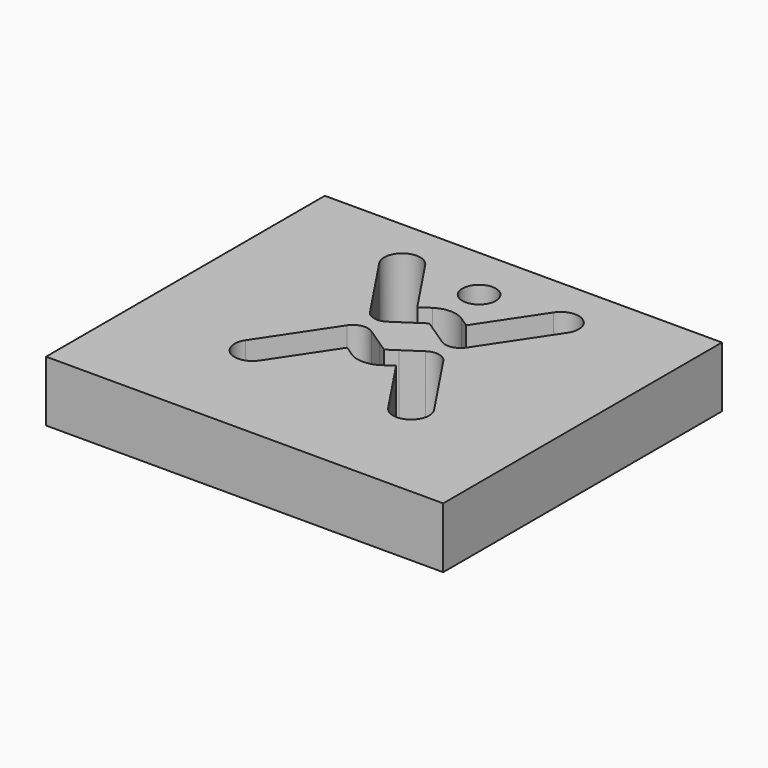
from build123d import *

# Parameters (mm, degrees)
F0_W     = 166.33784
F0_H     = 145.94993
F1_DEPTH = 25.4
F2_R     = 7.002992
F3_DEPTH = 87.884


with BuildPart() as f1:
    # F0 (on Top) → F1 (new body)
    with BuildSketch(Plane.XY):
        Rectangle(F0_W, F0_H)
    extrude(amount=F1_DEPTH)

    # F2 (on Top) → F3 (cut)
    with BuildSketch(Plane.XY):
        with BuildLine():
            Line((-10.242103, -6.474044), (-4.102627, 2.735104))
            Line((-4.102627, 2.735104), (-11.385368, 7.5903))
            ThreePointArc((-11.385368, 7.5903), (-16.153049, 8.533484), (-20.191239, 5.829157))
            Line((-20.191239, 5.829157), (-39.480227, -23.104115))
            Line((-39.480227, -23.104115), (-26.913978, -31.481675))
            Line((-26.913978, -31.481675), (-10.242103, -6.474044))
        make_face()
        Polygon((0, 0), (-4.102627, 2.735104), (-10.242103, -6.474044), (-6.139477, -9.209148), align=None)
        with BuildLine():
            Line((6.139477, -9.209148), (0, 0))
            Line((0, 0), (-6.139477, -9.209148))
            ThreePointArc((-6.139477, -9.209148), (0, -11.068043), (6.139477, -9.209148))
        make_face()
        Polygon((4.102627, 2.735104), (0, 0), (6.139477, -9.209148), (10.242103, -6.474044), align=None)
        with BuildLine():
            ThreePointArc((-39.480227, -23.104115), (-37.385883, -33.57602), (-26.913978, -31.481675))
            Line((-26.913978, -31.481675), (-39.480227, -23.104115))
        make_face()
        with BuildLine():
            Line((11.385368, 7.5903), (4.102627, 2.735104))
            Line((4.102627, 2.735104), (10.242103, -6.474044))
            Line((10.242103, -6.474044), (26.913978, -31.481675))
            Line((26.913978, -31.481675), (39.480227, -23.104115))
            Line((39.480227, -23.104115), (20.191239, 5.829157))
            ThreePointArc((20.191239, 5.829157), (16.153049, 8.533484), (11.385368, 7.5903))
        make_face()
        with BuildLine():
            Line((39.480227, -23.104115), (26.913978, -31.481675))
            ThreePointArc((26.913978, -31.481675), (37.385883, -33.57602), (39.480227, -23.104115))
        make_face()
        with Locations((0, 49.804196)):
            Circle(F2_R)
        with BuildLine():
            ThreePointArc((6.139477, 32.958477), (0, 34.817372), (-6.139477, 32.958477))
            Line((-6.139477, 32.958477), (0, 23.749329))
            Line((0, 23.749329), (6.139477, 32.958477))
        make_face()
        Polygon((0, 23.749329), (-6.139477, 32.958477), (-10.242103, 30.223372), (-4.102627, 21.014224), align=None)
        Polygon((6.139477, 32.958477), (0, 23.749329), (4.102627, 21.014224), (10.242103, 30.223372), align=None)
        with BuildLine():
            Line((-4.102627, 21.014224), (-10.242103, 30.223372))
            Line((-10.242103, 30.223372), (-26.913978, 55.231004))
            Line((-26.913978, 55.231004), (-39.480227, 46.853444))
            Line((-39.480227, 46.853444), (-20.191239, 17.920172))
            ThreePointArc((-20.191239, 17.920172), (-16.153049, 15.215844), (-11.385368, 16.159028))
            Line((-11.385368, 16.159028), (-4.102627, 21.014224))
        make_face()
        with BuildLine():
            Line((10.242103, 30.223372), (4.102627, 21.014224))
            Line((4.102627, 21.014224), (11.385368, 16.159028))
            ThreePointArc((11.385368, 16.159028), (16.153049, 15.215844), (20.191239, 17.920172))
            Line((20.191239, 17.920172), (39.480227, 46.853444))
            Line((39.480227, 46.853444), (26.913978, 55.231004))
            Line((26.913978, 55.231004), (10.242103, 30.223372))
        make_face()
        with BuildLine():
            Line((-39.480227, 46.853444), (-26.913978, 55.231004))
            ThreePointArc((-26.913978, 55.231004), (-37.385883, 57.325348), (-39.480227, 46.853444))
        make_face()
        with BuildLine():
            ThreePointArc((39.480227, 46.853444), (37.385883, 57.325348), (26.913978, 55.231004))
            Line((26.913978, 55.231004), (39.480227, 46.853444))
        make_face()
    extrude(amount=F3_DEPTH, mode=Mode.SUBTRACT)


solid = f1.part
